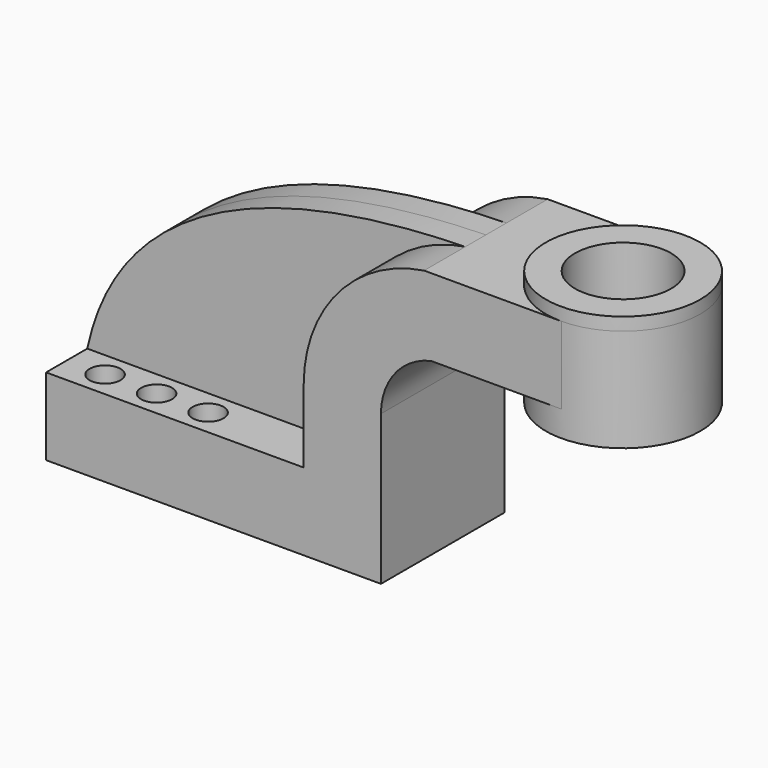
from build123d import *

# Parameters (mm, degrees)
F0_W          = 25.4
F0_H          = 19.05
F1_DEPTH      = 19.05
F2_DEPTH      = 6.35
F4_DEPTH      = 3.175
F4_DEPTH_BACK = 25.4
F5_R          = 11.8364
F6_DEPTH      = 50.8
F7_R          = 3.81
F8_DEPTH      = 25.4


with BuildPart() as f1:
    # F0 (on Front) → F1 (new body, symmetric)
    with BuildSketch(Plane.XZ):
        with BuildLine():
            Line((22.225, 9.525), (41.275, 9.525))
            Line((41.275, 9.525), (41.275, 27.3961414351))
            ThreePointArc((41.275, 27.3961414351), (44.7413406712, 37.2976968008), (53.6265966817, 42.8752))
            Line((53.6265966817, 42.8752), (60.325, 42.8752))
            Line((60.325, 42.8752), (60.325, 61.9252))
            Line((60.325, 61.9252), (51.9059805855, 61.9252))
            ThreePointArc((51.9059805855, 61.9252), (30.6650702941, 50.1624350173), (22.225, 27.3961414351))
            Line((22.225, 27.3961414351), (22.225, 9.525))
        make_face()
        Polygon((-41.275, -9.525), (41.275, -9.525), (41.275, 9.525), (22.225, 9.525), (-41.275, 9.525), align=None)
        with Locations((73.025, 52.4002)):
            Rectangle(F0_W, F0_H)
    extrude(amount=F1_DEPTH, both=True)

    # F0 (on Front) → F2 (join, symmetric)
    with BuildSketch(Plane.XZ):
        with BuildLine():
            add(Edge.make_bspline(
                [(-41.275, 9.525), (-35.163089633, 38.4709127247), (-8.6453789845, 60.5748556554), (51.9059805855, 61.9252)],
                knots=[0, 0, 0, 0, 106.9040509191, 106.9040509191, 106.9040509191, 106.9040509191], degree=3))
            Line((-41.275, 9.525), (22.225, 9.525))
            Line((22.225, 9.525), (22.225, 27.3961414351))
            ThreePointArc((22.225, 27.3961414351), (30.6650702941, 50.1624350173), (51.9059805855, 61.9252))
        make_face()
    extrude(amount=F2_DEPTH, both=True)

    # F3 (on face) → F4 (join, two sides)
    with BuildSketch(Plane.XY.offset(61.9252)) as f4_sk:
        with BuildLine():
            Line((85.725, -19.05), (85.725, 19.05))
            ThreePointArc((85.725, 19.05), (66.675, 0), (85.725, -19.05))
        make_face()
        with BuildLine():
            ThreePointArc((85.725, -19.05), (99.1953841816, -13.4703841816), (104.775, 0))
            ThreePointArc((104.775, 0), (99.1953841816, 13.4703841816), (85.725, 19.05))
            Line((85.725, 19.05), (85.725, -19.05))
        make_face()
    extrude(amount=F4_DEPTH)
    extrude(f4_sk.sketch, amount=-F4_DEPTH_BACK)

    # F5 (on face) → F6 (cut)
    with BuildSketch(Plane.XY.offset(65.1002)):
        with Locations((85.725, 0)):
            Circle(F5_R)
    extrude(amount=-F6_DEPTH, mode=Mode.SUBTRACT)

    # F7 (on face) → F8 (cut)
    with BuildSketch(Plane.XY.offset(9.525)):
        with Locations((-6.4540371954, -12.6517117023)):
            Circle(F7_R)
        with Locations((-19.1540371954, -12.6517117023)):
            Circle(F7_R)
        with Locations((-31.8540371954, -12.6517117023)):
            Circle(F7_R)
        with Locations((-6.4540371954, 12.6517117023)):
            Circle(F7_R)
        with Locations((-19.1540371954, 12.6517117023)):
            Circle(F7_R)
        with Locations((-31.8540371954, 12.6517117023)):
            Circle(F7_R)
    extrude(amount=-F8_DEPTH, mode=Mode.SUBTRACT)


solid = f1.part
